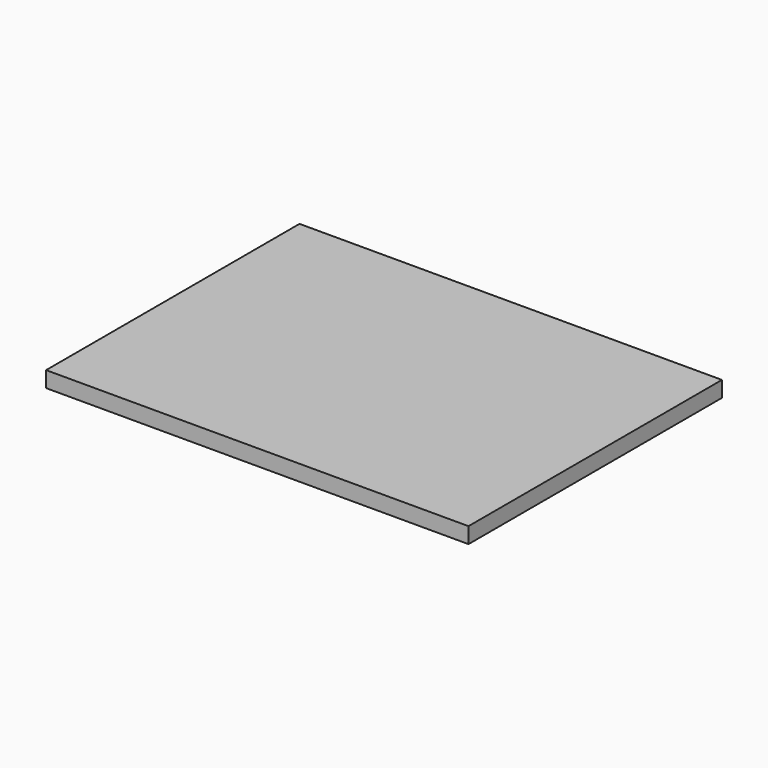
from build123d import *

# Parameters (mm, degrees)
SKETCH_W  = 80
SKETCH_H  = 59.99
PAD_DEPTH = 3


with BuildPart() as part:
    # Sketch → Pad (new body)
    with BuildSketch(Plane.XY):
        with Locations((-6.756945, 10.521067)):
            Rectangle(SKETCH_W, SKETCH_H)
    extrude(amount=PAD_DEPTH)


solid = part.part
